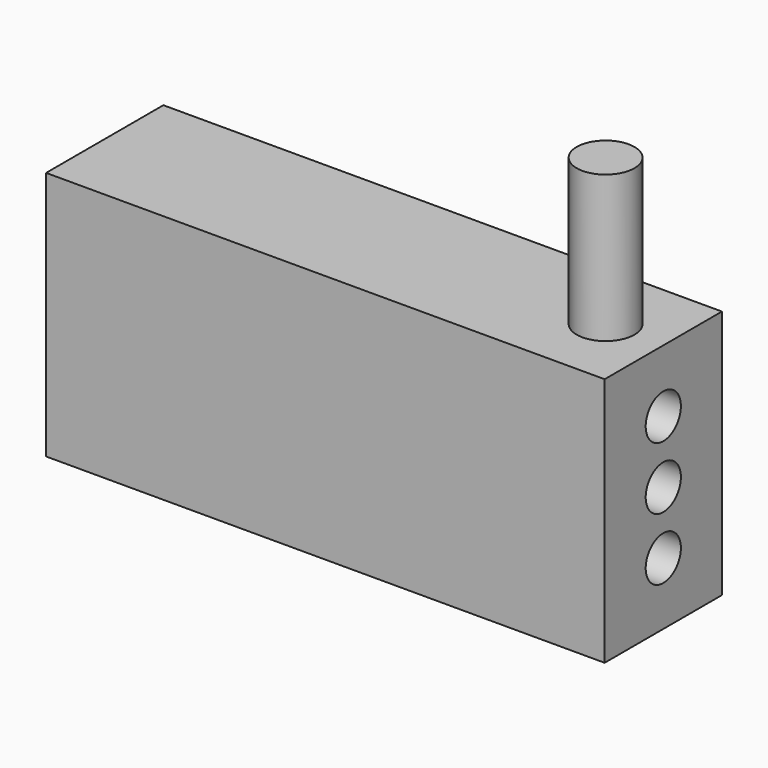
from build123d import *

# Parameters (mm, degrees)
F0_W     = 96.787006
F0_H     = 43.260872
F6_DEPTH = 25.4
F1_R     = 5
F2_DEPTH = 25.4
F7_R     = 3.81
F8_DEPTH = 96.788006


with BuildPart() as f6:
    # F0 (on Front) → F6 (new body)
    with BuildSketch(Plane.XZ):
        Rectangle(F0_W, F0_H)
    extrude(amount=F6_DEPTH)

    # F1 (on face) → F2 (join)
    with BuildSketch(Plane.XY.offset(21.630436)):
        with Locations((38.393503, -12.7)):
            Circle(F1_R)
    extrude(amount=F2_DEPTH)

    # F7 (on face) → F8 (cut, through all)
    with BuildSketch(Plane.YZ.offset(48.393503)):
        with Locations((-12.7, 10.815218)):
            Circle(F7_R)
        with Locations((-12.7, 0)):
            Circle(F7_R)
        with Locations((-12.7, -10.815218)):
            Circle(F7_R)
    extrude(amount=-F8_DEPTH, mode=Mode.SUBTRACT)


solid = f6.part
